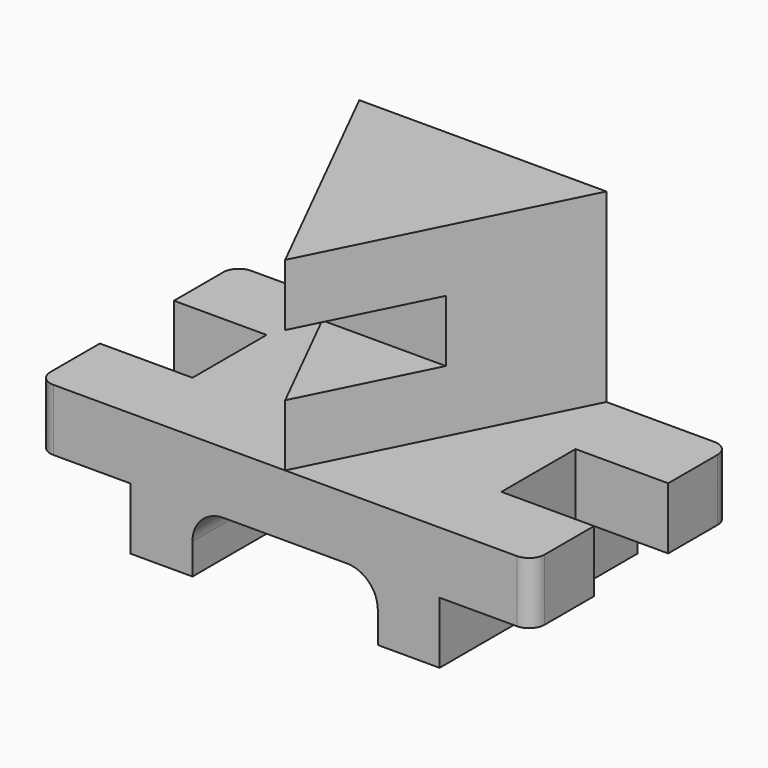
from build123d import *

# Parameters (mm, degrees)
F1_DEPTH = 101.6
F3_DEPTH = 25.4
F5_DEPTH = 76.2
F6_W     = 50.8
F6_H     = 25.4
F7_DEPTH = 165.101
F8_W     = 38.1
F8_H     = 38.1
F9_DEPTH = 50.801


with BuildPart() as f1:
    # F0 (on Front) → F1 (new body)
    with BuildSketch(Plane.XZ):
        with BuildLine():
            Line((127, 50.8), (0, 50.8))
            Line((0, 50.8), (0, 0))
            Line((0, 0), (25.4, 0))
            Line((25.4, 0), (25.4, 12.7))
            ThreePointArc((25.4, 12.7), (29.119744, 21.680256), (38.1, 25.4))
            Line((38.1, 25.4), (88.9, 25.4))
            ThreePointArc((88.9, 25.4), (97.880256, 21.680256), (101.6, 12.7))
            Line((101.6, 12.7), (101.6, 0))
            Line((101.6, 0), (127, 0))
            Line((127, 0), (127, 50.8))
        make_face()
    extrude(amount=F1_DEPTH)

    # F2 (on face) → F3 (join)
    with BuildSketch(Plane.XY.offset(50.8)):
        with BuildLine():
            Line((0, -101.6), (0, 0))
            Line((0, 0), (-31.75, 0))
            ThreePointArc((-31.75, 0), (-36.240128, -1.859872), (-38.1, -6.35))
            Line((-38.1, -6.35), (-38.1, -95.25))
            ThreePointArc((-38.1, -95.25), (-36.240128, -99.740128), (-31.75, -101.6))
            Line((-31.75, -101.6), (0, -101.6))
        make_face()
        with BuildLine():
            Line((127, 0), (127, -101.6))
            Line((127, -101.6), (158.75, -101.6))
            ThreePointArc((158.75, -101.6), (163.240128, -99.740128), (165.1, -95.25))
            Line((165.1, -95.25), (165.1, -6.35))
            ThreePointArc((165.1, -6.35), (163.240128, -1.859872), (158.75, 0))
            Line((158.75, 0), (127, 0))
        make_face()
    extrude(amount=-F3_DEPTH)

    # F4 (on face) → F5 (join)
    with BuildSketch(Plane.XY.offset(50.8)):
        Polygon((114.3, 0), (12.7, 0), (63.5, -101.6), align=None)
    extrude(amount=F5_DEPTH)

    # F6 (on Right) → F7 (cut, through all)
    with BuildSketch(Plane.YZ):
        with Locations((-76.2, 88.9)):
            Rectangle(F6_W, F6_H)
    extrude(amount=F7_DEPTH, mode=Mode.SUBTRACT)

    # F8 (on face) → F9 (cut, through all)
    with BuildSketch(Plane.XY.offset(50.8)):
        with Locations((146.05, -50.8)):
            Rectangle(F8_W, F8_H)
        with Locations((-19.05, -50.8)):
            Rectangle(F8_W, F8_H)
    extrude(amount=-F9_DEPTH, mode=Mode.SUBTRACT)


solid = f1.part
